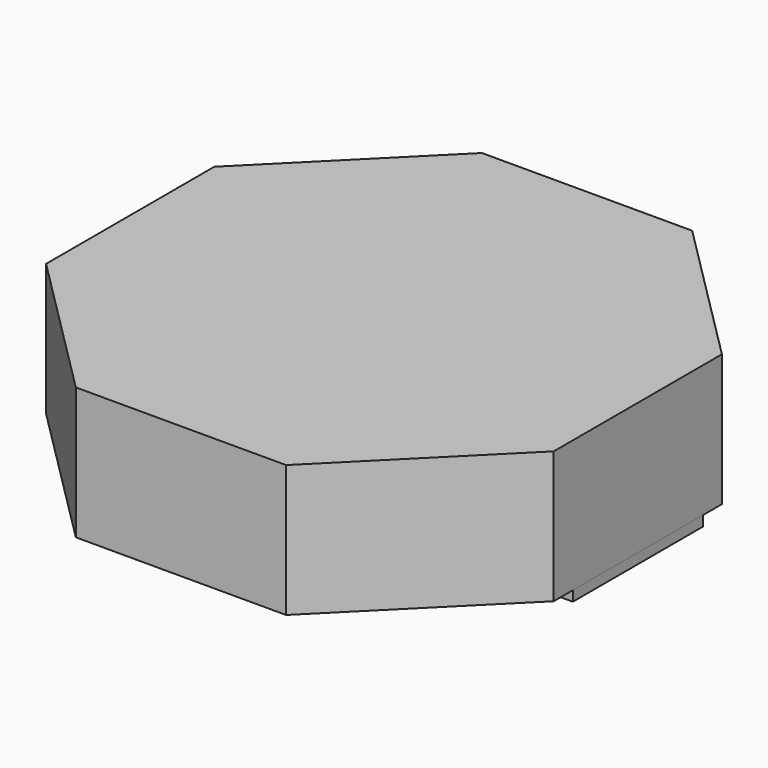
from build123d import *

# Parameters (mm, degrees)
RECTANGLE_W                             = 1.3
RECTANGLE_H                             = 3.2
EXTRUDE_DEPTH                           = 0.2
RECTANGLE001_W                          = 1.3
RECTANGLE001_H                          = 3.2
EXTRUDE001_DEPTH                        = 0.2
EXTRUDE003_DEPTH                        = 2.6
EXTRUDE003_ONTO_POLYGON_PLACEMENT_ANGLE = 22.5


with BuildPart() as extrude_body:
    # Rectangle → Extrude (new body)
    with BuildSketch(Plane(origin=(-5, -1.6, 0), x_dir=(1, 0, 0), z_dir=(0, 0, 1))):
        with Locations((0.65, 1.6)):
            Rectangle(RECTANGLE_W, RECTANGLE_H)
    extrude(amount=EXTRUDE_DEPTH)


with BuildPart() as extrude001:
    # Rectangle001 → Extrude001 (new body)
    with BuildSketch(Plane(origin=(3.7, -1.6, 0), x_dir=(1, 0, 0), z_dir=(0, 0, 1))):
        with Locations((0.65, 1.6)):
            Rectangle(RECTANGLE001_W, RECTANGLE001_H)
    extrude(amount=EXTRUDE001_DEPTH)


with BuildPart() as extrude003:
    # Polygon as drawn → Extrude003 (new)
    with BuildSketch(Plane.XY):
        Polygon((5.411961, 0), (3.826834, 3.826834), (0, 5.411961), (-3.826834, 3.826834), (-5.411961, 0), (-3.826834, -3.826834), (0, -5.411961), (3.826834, -3.826834), align=None)
    extrude(amount=EXTRUDE003_DEPTH)


with BuildPart() as extrude003_1:
    # Extrude003 onto Polygon placement: moved
    add(extrude003.part.moved(Location((0, 0, 0.2))).rotate(Axis((0, 0, 0.2), (0, 0, 1)), EXTRUDE003_ONTO_POLYGON_PLACEMENT_ANGLE))


solid = Compound([extrude_body.part, extrude001.part, extrude003_1.part])
